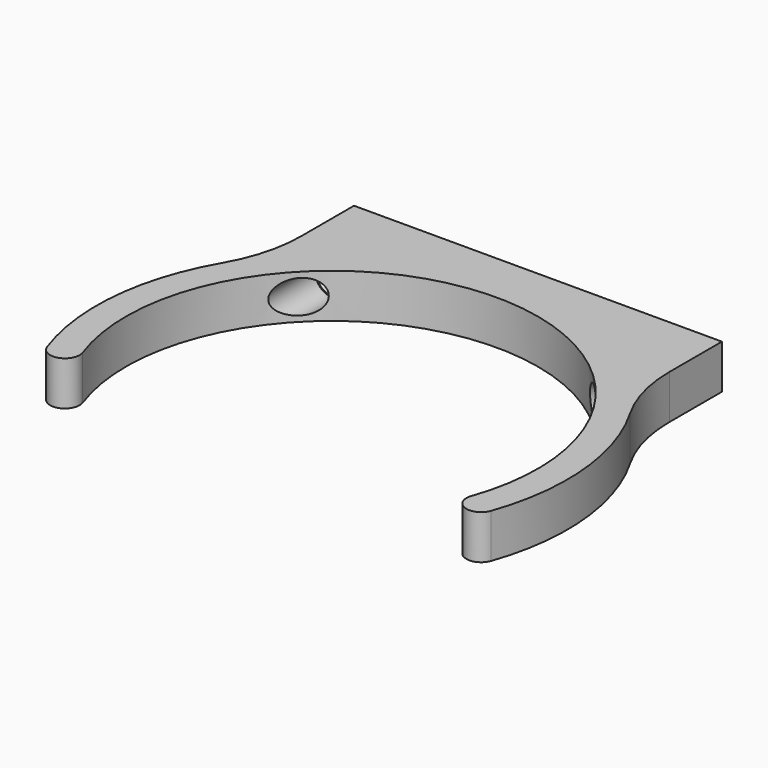
from build123d import *

# Parameters (mm, degrees)
PAD_DEPTH        = 6
HOLE_D           = 3
HOLE_CBORE_D     = 4.5
HOLE_CBORE_DEPTH = 25
CHAMFER_SIZE     = 0.6
FILLET_R         = 20


with BuildPart() as part:
    # Sketch → Pad (new body)
    with BuildSketch(Plane.XY):
        with BuildLine():
            ThreePointArc((26.398653, -9.333333), (0, 28), (-26.398653, -9.333333))
            ThreePointArc((-30.169889, -10.666667), (-27.617605, -11.885618), (-26.398653, -9.333333))
            ThreePointArc((-25, 19.974984), (-31.554031, 5.323827), (-30.169889, -10.666667))
            Line((-25, 19.974984), (-25, 35))
            Line((-25, 35), (25, 35))
            Line((25, 19.974984), (25, 35))
            ThreePointArc((30.169889, -10.666667), (31.554031, 5.323827), (25, 19.974984))
            ThreePointArc((26.398653, -9.333333), (27.617605, -11.885618), (30.169889, -10.666667))
        make_face()
    extrude(amount=PAD_DEPTH)

    # Hole (through all)
    with Locations(Plane.XZ):
        with Locations((-20, 3), (20, 3)):
            CounterBoreHole(HOLE_D / 2, HOLE_CBORE_D / 2, HOLE_CBORE_DEPTH)

    # Chamfer
    chamfer_edges = [part.edges().sort_by_distance(p)[0] for p in [
        (21.5, 25, 3),
        (-18.5, 25, 3),
    ]]
    chamfer(chamfer_edges, length=CHAMFER_SIZE)

    # Fillet
    fillet_edges = [part.edges().sort_by_distance(p)[0] for p in [
        (-25, 19.974984, 3),
        (25, 19.974984, 3),
    ]]
    fillet(fillet_edges, radius=FILLET_R)


solid = part.part
